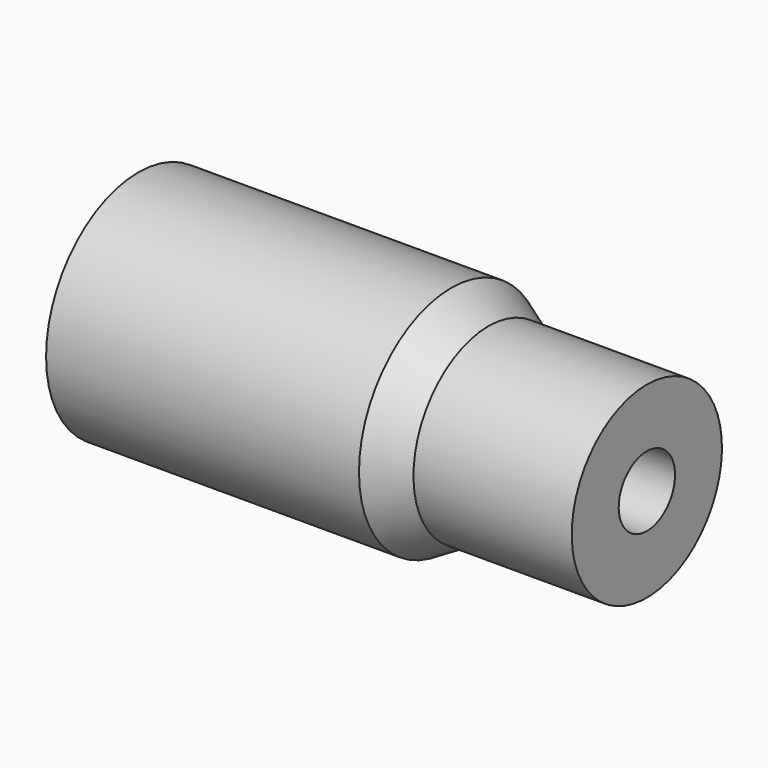
from build123d import *


with BuildPart() as f1:
    # F0 (on Front) → F1 (revolve)
    with BuildSketch(Plane.XZ):
        Polygon((-7, 2.95), (-7, 1.45), (0, 1.45), (0, 0.9), (6, 0.9), (6, 2.4), (1.952628, 2.4), (1, 2.4), (1, 2.95), align=None)
        Polygon((1.952628, 2.4), (1, 2.95), (1, 2.4), align=None)
    revolve(axis=Axis((-0.070939, 0, 0), (-1, 0, 0)))


solid = f1.part
